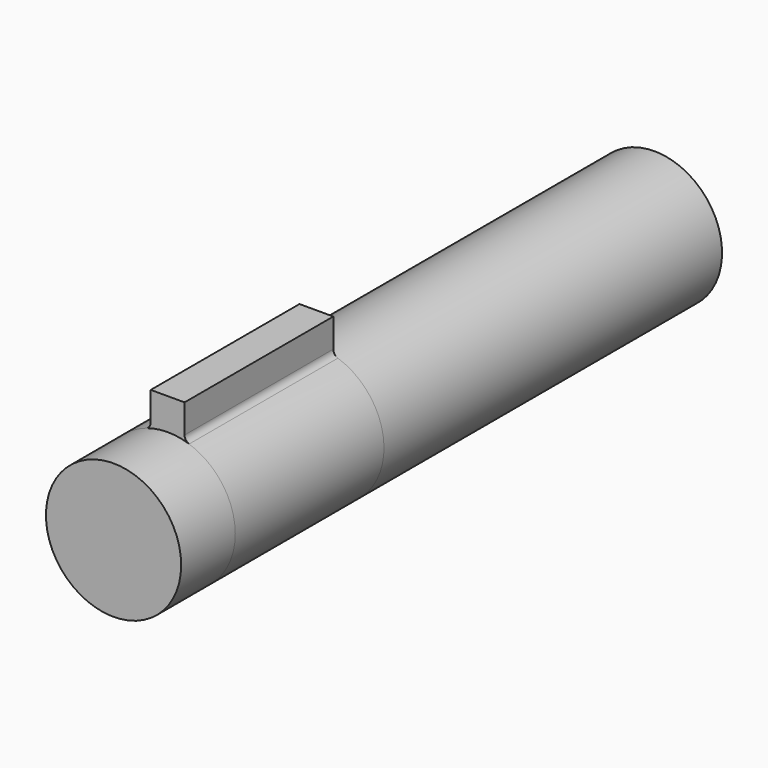
from build123d import *

# Parameters (mm, degrees)
F0_R      = 20
F1_DEPTH  = 20
F1_FACE_R = 20
F3_DEPTH  = 55
F4_R      = 20
F5_DEPTH  = 125


with BuildPart() as f1:
    # F0 (on Front) → F1 (new body)
    with BuildSketch(Plane.XZ):
        Circle(F0_R)
    extrude(amount=-F1_DEPTH)

    # F2 (on face) + F1_face (on face) → F3 (join)
    with BuildSketch(Plane(origin=(0, 20, 0), x_dir=(-1, 0, 0), z_dir=(0, 1, 0))):
        with BuildLine():
            ThreePointArc((6.363636, 18.960594), (0, 20), (-6.363636, 18.960594))
            ThreePointArc((-6.363636, 18.960594), (-11.677484, -16.236883), (20, 0))
            ThreePointArc((20, 0), (16.236883, 11.677484), (6.363636, 18.960594))
        make_face()
        with BuildLine():
            ThreePointArc((-5, 20.856654), (-5.376312, 19.688905), (-6.363636, 18.960594))
            ThreePointArc((-6.363636, 18.960594), (0, 20), (6.363636, 18.960594))
            ThreePointArc((6.363636, 18.960594), (5.376312, 19.688905), (5, 20.856654))
            Line((5, 20.856654), (5, 29.364917))
            Line((5, 29.364917), (-5, 29.364917))
            Line((-5, 29.364917), (-5, 20.856654))
        make_face()
    with BuildSketch(Plane(origin=(0, 20, 0), x_dir=(1, 0, 0), z_dir=(0, 1, 0))):
        Circle(F1_FACE_R)
    extrude(amount=F3_DEPTH)

    # F4 (on face) → F5 (join)
    with BuildSketch(Plane(origin=(0, 75, 0), x_dir=(-1, 0, 0), z_dir=(0, 1, 0))):
        Circle(F4_R)
    extrude(amount=F5_DEPTH)


solid = f1.part
